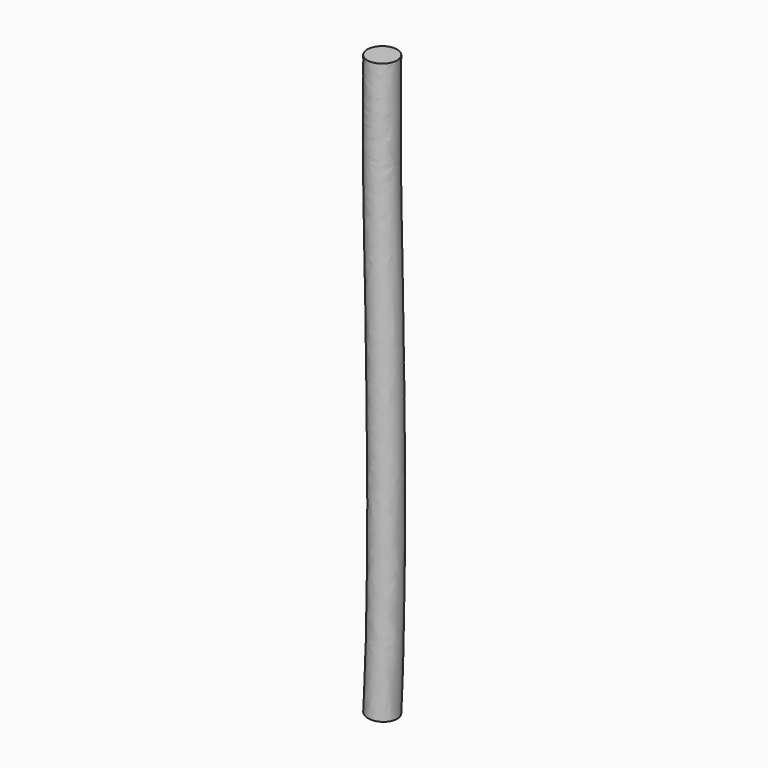
from build123d import *

# Parameters (mm, degrees)
F0_R = 2.5


with BuildPart() as f2:
    # F2: sweep along a path in F1
    with BuildLine(Plane.XZ) as f2_path:
        add(Plane.XZ * Edge.make_bspline(
            [(0, 0), (0, -6.063312264), (-0.3249136475, -18.8282336212), (1.3310362119, -71.3848769665), (0, -97.2637608647)],
            knots=[0, 0, 0, 0, 0.328052535, 1, 1, 1, 1], degree=3))
    # F0 (on Top) → F2 (sweep)
    with BuildSketch(Plane.XY):
        Circle(F0_R)
    sweep(path=f2_path.line)


solid = f2.part
